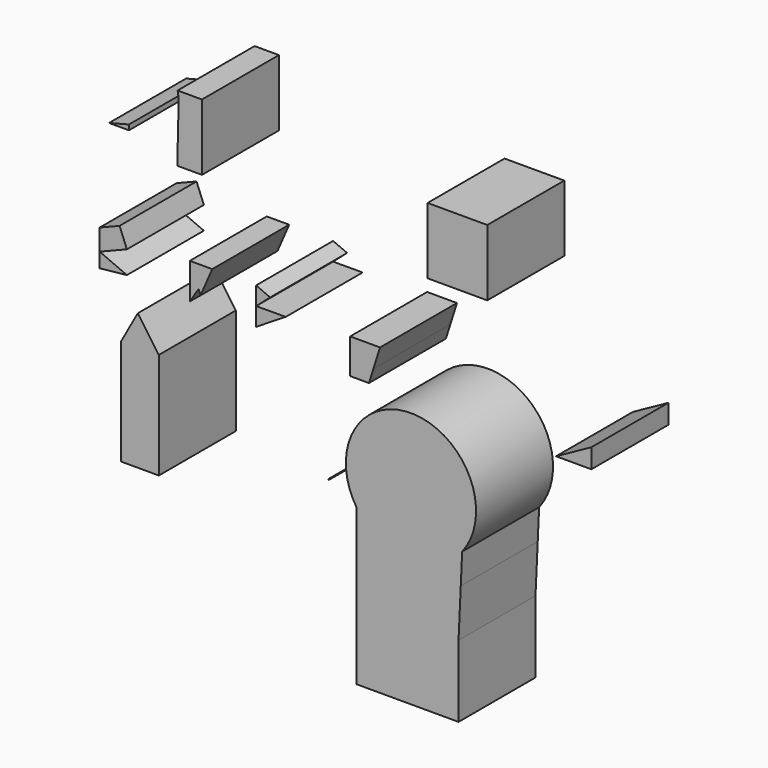
from build123d import *

# Parameters (mm, degrees)
F1_DEPTH = 25
F2_W     = 15.520076
F2_H     = 17.244525
F3_DEPTH = 25
F4_R     = 16.91566
F5_DEPTH = 25


with BuildPart() as f1:
    # F0 (on Front) → F1 (new body)
    with BuildSketch(Plane.XZ):
        Polygon((36.646812, -29.775604), (37.223821, -17.158411), (33.666293, -19.27908), (29.848246, -20.883999), (25.843995, -21.941929), (21.731478, -22.43228), (17.590739, -22.345506), (13.502375, -21.683298), (9.545959, -20.458544), (9.545959, -31.425671), (9.545959, -42.392798), (15.102927, -42.392798), (22.807881, -42.392798), (36.069803, -42.392798), align=None)
        Polygon((-16.526002, 21.699362), (-16.526002, 16.957117), (-12.888361, 20.12305), align=None)
        Polygon((-16.526002, 12.214873), (-15.167016, 13.057691), (-8.839482, 16.981909), (-16.526002, 16.957117), align=None)
        Polygon((2.332938, -16.695337), (2.527629, -16.554642), (2.332938, -16.427238), align=None)
        Polygon((36.069803, -61.074365), (36.069803, -42.392798), (22.807881, -42.392798), (15.102927, -42.392798), (9.545959, -42.392798), (9.545959, -61.074365), (15.663777, -61.074365), (30.321628, -61.074365), align=None)
        Polygon((7.903743, 12.639839), (7.903743, 8.876176), (12.78969, 8.876176), (13.945488, 12.530412), align=None)
        Polygon((7.903743, 17.963048), (7.903743, 12.639839), (13.945488, 12.530412), (15.663777, 17.963048), align=None)
        Polygon((-51.589873, -30.034218), (-47.278743, -30.034218), (-44.548359, -30.034218), (-41.817974, -30.034218), (-41.817974, -2.442975), (-51.589873, -2.442975), align=None)
        Polygon((-47.278743, 5.317062), (-51.589873, -2.442975), (-41.817974, -2.442975), align=None)
        Polygon((-49.578011, 46.416517), (-49.578011, 47.751577), (-54.75137, 46.416517), align=None)
        Polygon((-36.644619, 57.912868), (-36.932025, 46.416517), (-36.932025, 42.392798), (-30.609036, 42.392798), (-30.609036, 59.637319), (-36.932025, 59.637319), align=None)
        Polygon((-57.186145, 21.699362), (-57.186145, 16.184396), (-50.11319, 19.013576), (-52.014902, 23.767858), align=None)
        Polygon((-57.186145, 16.184396), (-57.186145, 12.388555), (-50.11319, 13.119449), align=None)
        Polygon((-27.936135, 21.699362), (-33.770531, 21.699362), (-31.497301, 16.016283), align=None)
        Polygon((-31.497301, 16.016283), (-33.770531, 21.699362), (-33.770531, 12.388555), align=None)
        Polygon((-27.936135, 21.699362), (-31.497301, 16.016283), (-30.970022, 14.698084), align=None)
        Polygon((70.585034, 7.942672), (70.585034, 12.98516), (61.412587, 7.942672), align=None)
    extrude(amount=F1_DEPTH)

    # F4 (on Front) → F5 (join)
    with BuildSketch(Plane.XZ):
        with Locations((23.711223, -11.352646)):
            Circle(F4_R)
    extrude(amount=F5_DEPTH)


with BuildPart() as f3:
    # F2 (on Front) → F3 (new body)
    with BuildSketch(Plane.XZ):
        with Locations((35.782392, 46.416517)):
            Rectangle(F2_W, F2_H)
    extrude(amount=F3_DEPTH)


solid = Compound([f1.part, f3.part])
